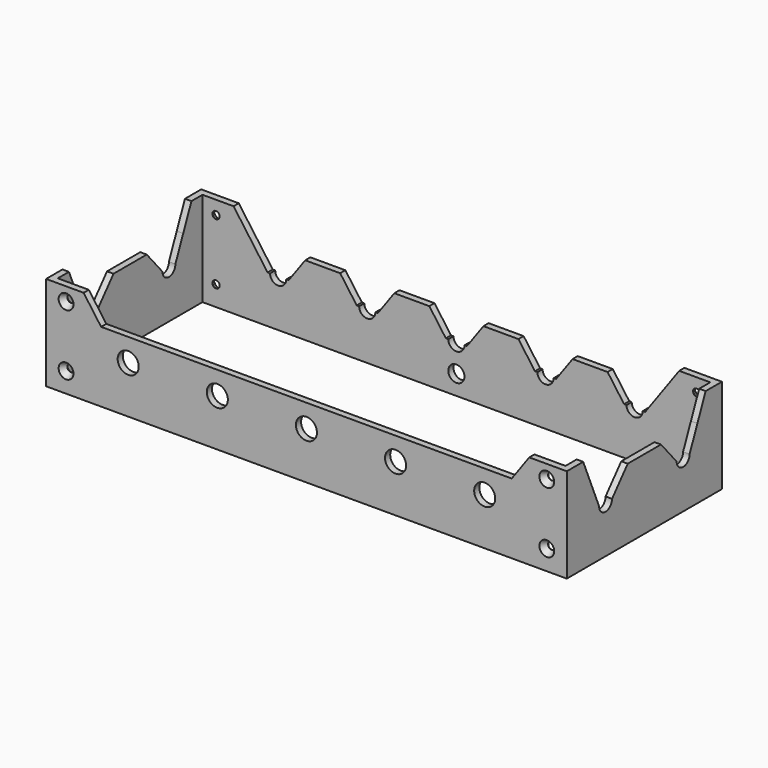
from build123d import *

# Parameters (mm, degrees)
F0_W            = 192.8
F0_H            = 71.8
F0_W_2          = 188
F0_H_2          = 67
F1_DEPTH        = 35
F2_R            = 3
F3_DEPTH        = 192.801
F4_R            = 3.9
F5_DEPTH        = 25
F6_R            = 3
F7_DEPTH        = 25
F11_DEPTH       = 192.801
F12_DEPTH       = 71.801
F13_D           = 2.7
F13_DEPTH       = 12
F13_CSINK_D     = 5.5
F13_CSINK_ANGLE = 63
F13_TIP         = 0.8111618357
F15_D           = 2.7
F15_DEPTH       = 12
F15_CSINK_D     = 5.5
F15_CSINK_ANGLE = 63
F15_TIP         = 0.8111618357
F16_START       = -18.1
F16_DEPTH       = 112.3
F17_R           = 3
F18_DEPTH       = 25


with BuildPart() as f1:
    # F0 (on Top) → F1 (new body)
    with BuildSketch(Plane.XY):
        Rectangle(F0_W, F0_H)
        Rectangle(F0_W_2, F0_H_2, mode=Mode.SUBTRACT)
    extrude(amount=F1_DEPTH)

    # F2 (on face) → F3 (cut, through all)
    with BuildSketch(Plane(origin=(-96.4, 0, 0), x_dir=(0, -1, 0), z_dir=(-1, 0, 0))):
        with Locations((-17.95, 17.5)):
            Circle(F2_R)
        with Locations((17.95, 17.5)):
            Circle(F2_R)
    extrude(amount=-F3_DEPTH, mode=Mode.SUBTRACT)

    # F4 (on face) → F5 (cut)
    with BuildSketch(Plane.XZ.offset(35.9)):
        with Locations((0, 17.5)):
            Circle(F4_R)
        with Locations((33, 17.5)):
            Circle(F4_R)
        with Locations((66, 17.5)):
            Circle(F4_R)
        with Locations((-33, 17.5)):
            Circle(F4_R)
        with Locations((-66, 17.5)):
            Circle(F4_R)
    extrude(amount=-F5_DEPTH, mode=Mode.SUBTRACT)

    # F6 (on face) → F7 (cut)
    with BuildSketch(Plane(origin=(0, 35.9, 0), x_dir=(-1, 0, 0), z_dir=(0, 1, 0))):
        with Locations((0, 17.5)):
            Circle(F6_R)
        with Locations((33, 17.5)):
            Circle(F6_R)
        with Locations((66, 17.5)):
            Circle(F6_R)
        with Locations((-33, 17.5)):
            Circle(F6_R)
        with Locations((-66, 17.5)):
            Circle(F6_R)
    extrude(amount=-F7_DEPTH, mode=Mode.SUBTRACT)

    # F9 (on face) → F11 (cut, through all)
    with BuildSketch(Plane(origin=(-96.4, 0, 0), x_dir=(0, -1, 0), z_dir=(-1, 0, 0))):
        with BuildLine():
            Line((-7.6885714286, 26), (-24.5562429894, 26))
            Line((-24.5562429894, 26), (-20.95, 17.5))
            ThreePointArc((-20.95, 17.5), (-17.95, 20.5), (-14.95, 17.5))
            Line((-14.95, 17.5), (-7.6885714286, 26))
        make_face()
        Polygon((0, 35), (-28.3746179193, 35), (-24.5562429894, 26), (-7.6885714286, 26), align=None)
        Polygon((28.3215269446, 35), (0, 35), (7.6885714286, 26), (24.5304559445, 26), align=None)
        with BuildLine():
            Line((24.5304559445, 26), (7.6885714286, 26))
            Line((7.6885714286, 26), (14.95, 17.5))
            ThreePointArc((14.95, 17.5), (17.95, 20.5), (20.95, 17.5))
            Line((20.95, 17.5), (24.5304559445, 26))
        make_face()
        Polygon((7.6885714286, 26), (0, 35), (-7.6885714286, 26), align=None)
    extrude(amount=-F11_DEPTH, mode=Mode.SUBTRACT)

    # F10 (on face) → F12 (cut, through all)
    with BuildSketch(Plane.XZ.offset(35.9)):
        Polygon((-49.5, 35), (-82.5, 35), (-76.02, 26), (-55.98, 26), align=None)
        Polygon((-16.5, 35), (-49.5, 35), (-43.02, 26), (-22.98, 26), align=None)
        Polygon((-43.02, 26), (-49.5, 35), (-55.98, 26), align=None)
        Polygon((16.5, 35), (-16.5, 35), (-10.02, 26), (10.02, 26), align=None)
        Polygon((-10.02, 26), (-16.5, 35), (-22.98, 26), align=None)
        Polygon((49.5, 35), (16.5, 35), (22.98, 26), (43.02, 26), align=None)
        Polygon((55.98, 26), (49.5, 35), (43.02, 26), align=None)
        Polygon((82.5, 35), (49.5, 35), (55.98, 26), (76.02, 26), align=None)
        with BuildLine():
            ThreePointArc((69.9, 17.5), (66, 21.4), (62.1, 17.5))
            Line((62.1, 17.5), (69.9, 17.5))
        make_face()
        with BuildLine():
            ThreePointArc((36.9, 17.5), (33, 21.4), (29.1, 17.5))
            Line((29.1, 17.5), (36.9, 17.5))
        make_face()
        with BuildLine():
            ThreePointArc((3.9, 17.5), (0, 21.4), (-3.9, 17.5))
            Line((-3.9, 17.5), (3.9, 17.5))
        make_face()
        with BuildLine():
            ThreePointArc((-29.1, 17.5), (-33, 21.4), (-36.9, 17.5))
            Line((-36.9, 17.5), (-29.1, 17.5))
        make_face()
        with BuildLine():
            ThreePointArc((-62.1, 17.5), (-66, 21.4), (-69.9, 17.5))
            Line((-69.9, 17.5), (-62.1, 17.5))
        make_face()
        Polygon((22.98, 26), (16.5, 35), (10.02, 26), align=None)
    extrude(amount=-F12_DEPTH, mode=Mode.SUBTRACT)

    # F13
    with Locations(Plane.XZ.offset(35.9)):
        with Locations((-89, 30), (-89, 7.4), (89, 30), (89, 7.4)):
            CounterSinkHole(F13_D / 2, F13_CSINK_D / 2, depth=F13_DEPTH, counter_sink_angle=F13_CSINK_ANGLE)
            with Locations((0, 0, -(F13_DEPTH + F13_TIP / 2))):  # 118° drill point
                Cone(0, F13_D / 2, F13_TIP, mode=Mode.SUBTRACT)

    # F15
    with Locations(Plane(origin=(0, 35.9, 0), x_dir=(-1, 0, 0), z_dir=(0, 1, 0))):
        with Locations((89.0000388026, 30.0000663847), (89.0000388026, 7.4000651948), (-88.9999940991, 30.0000663847), (-88.9999940991, 7.4000651948)):
            CounterSinkHole(F15_D / 2, F15_CSINK_D / 2, depth=F15_DEPTH, counter_sink_angle=F15_CSINK_ANGLE)
            with Locations((0, 0, -(F15_DEPTH + F15_TIP / 2))):  # 118° drill point
                Cone(0, F15_D / 2, F15_TIP, mode=Mode.SUBTRACT)

    # F10 (on face) → F16 (cut)
    with BuildSketch(Plane.XZ.offset(35.9).offset(F16_START)):
        with BuildLine():
            Line((-55.98, 26), (-76.02, 26))
            Line((-76.02, 26), (-69.9, 17.5))
            ThreePointArc((-69.9, 17.5), (-66, 21.4), (-62.1, 17.5))
            Line((-62.1, 17.5), (-55.98, 26))
        make_face()
        with BuildLine():
            Line((-22.98, 26), (-43.02, 26))
            Line((-43.02, 26), (-36.9, 17.5))
            ThreePointArc((-36.9, 17.5), (-33, 21.4), (-29.1, 17.5))
            Line((-29.1, 17.5), (-22.98, 26))
        make_face()
        with BuildLine():
            Line((10.02, 26), (-10.02, 26))
            Line((-10.02, 26), (-3.9, 17.5))
            ThreePointArc((-3.9, 17.5), (0, 21.4), (3.9, 17.5))
            Line((3.9, 17.5), (10.02, 26))
        make_face()
        with BuildLine():
            Line((43.02, 26), (22.98, 26))
            Line((22.98, 26), (29.1, 17.5))
            ThreePointArc((29.1, 17.5), (33, 21.4), (36.9, 17.5))
            Line((36.9, 17.5), (43.02, 26))
        make_face()
        with BuildLine():
            Line((76.02, 26), (55.98, 26))
            Line((55.98, 26), (62.1, 17.5))
            ThreePointArc((62.1, 17.5), (66, 21.4), (69.9, 17.5))
            Line((69.9, 17.5), (76.02, 26))
        make_face()
    extrude(amount=-F16_DEPTH, mode=Mode.SUBTRACT)

    # F17 (on face) → F18 (cut)
    with BuildSketch(Plane(origin=(0, 35.9, 0), x_dir=(-1, 0, 0), z_dir=(0, 1, 0))):
        with Locations((0, 7.25)):
            Circle(F17_R)
    extrude(amount=-F18_DEPTH, mode=Mode.SUBTRACT)


solid = f1.part
